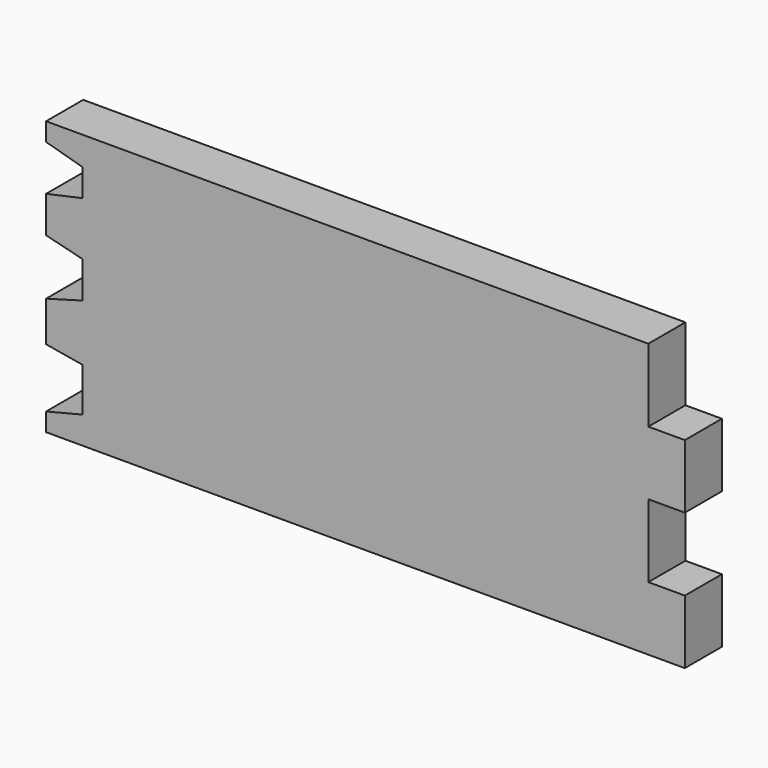
from build123d import *

# Parameters (mm, degrees)
F0_W     = 20
F0_H     = 35
F1_DEPTH = 25.4


with BuildPart() as f1:
    # F0 (on Front) → F1 (new body)
    with BuildSketch(Plane.XZ):
        Polygon((-72.583798, 108.904224), (-72.583798, 98.904224), (-52.583798, 98.904224), (-52.583798, 113.904224), align=None)
        Polygon((-52.583798, 113.904224), (-52.583798, 98.904224), (257.416202, 98.904224), (257.416202, 133.904224), (257.416202, 173.904224), (257.416202, 208.904224), (257.416202, 248.904224), (-52.583798, 248.904224), (-52.583798, 233.297413), (-52.583798, 218.297413), (-52.583798, 188.904224), (-52.583798, 168.904224), (-52.583798, 137.904224), align=None)
        with Locations((267.416202, 116.404224)):
            Rectangle(F0_W, F0_H)
        Polygon((-72.583798, 141.323209), (-52.583798, 137.904224), (-52.583798, 168.904224), (-72.583798, 163.323209), align=None)
        with Locations((267.416202, 191.404224)):
            Rectangle(F0_W, F0_H)
        Polygon((-72.583798, 193.904224), (-52.583798, 188.904224), (-52.583798, 218.297413), (-72.583798, 213.904224), align=None)
        Polygon((-52.583798, 233.297413), (-52.583798, 248.904224), (-72.583798, 248.904224), (-72.583798, 238.904224), align=None)
    extrude(amount=F1_DEPTH)


solid = f1.part
